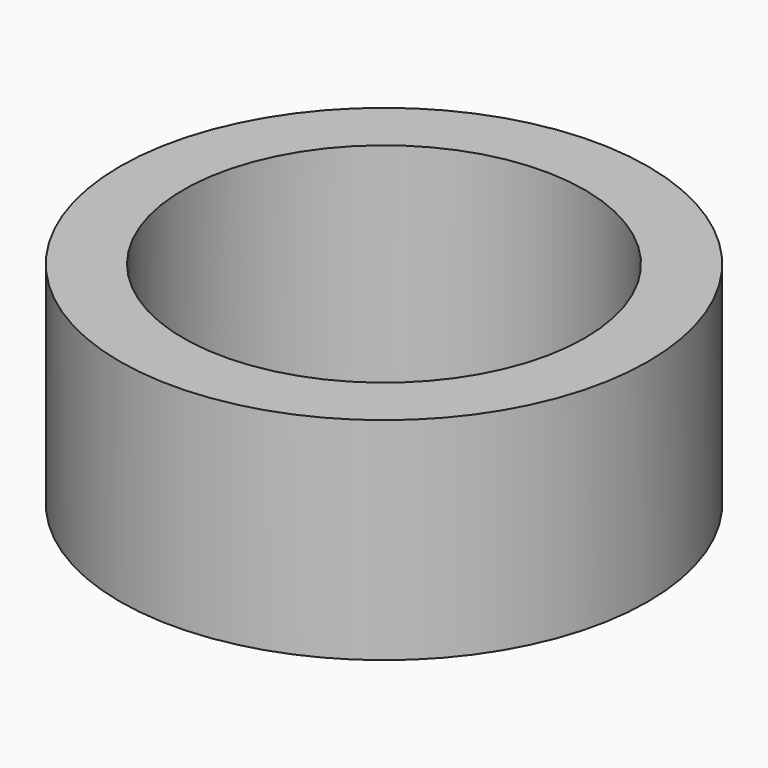
from build123d import *

# Parameters (mm, degrees)
F0_R     = 12.5
F0_R_2   = 9.5
F1_DEPTH = 10
F2_W     = 9.781936
F2_H     = 3.364756
F2_R     = 1
F3_DEPTH = 10.001


with BuildPart() as f1:
    # F0 (on Top) → F1 (new body)
    with BuildSketch(Plane.XY):
        Circle(F0_R)
        Circle(F0_R_2, mode=Mode.SUBTRACT)
    extrude(amount=F1_DEPTH)

    # F2 (on face) → F3 (cut, through all)
    with BuildSketch(Plane.XY.offset(10)):
        with Locations((18.416988, 0)):
            Rectangle(F2_W, F2_H)
        with BuildLine():
            ThreePointArc((-14.076162, 2.241462), (-18.807072, -1.228442), (-13.070116, 0))
            ThreePointArc((-13.070116, 0), (-13.333159, 1.228442), (-14.076162, 2.241462))
        make_face()
        with Locations((-16.070116, 0)):
            Circle(F2_R, mode=Mode.SUBTRACT)
    extrude(amount=-F3_DEPTH, mode=Mode.SUBTRACT)


solid = f1.part
